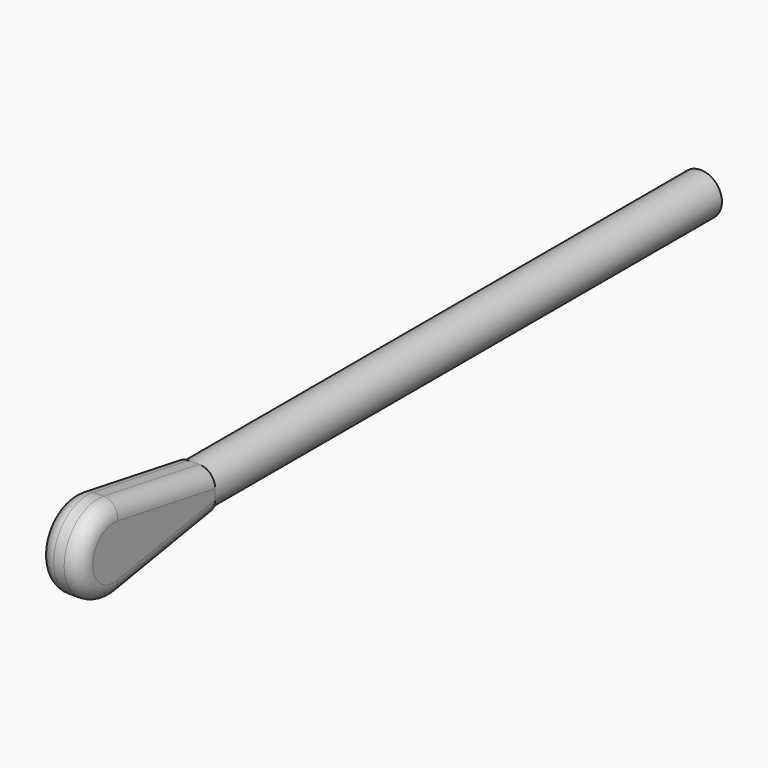
from build123d import *

# Parameters (mm, degrees)
F0_R     = 3.175
F1_DEPTH = 50.8
F3_DEPTH = 3.175
F4_R     = 2.3876


with BuildPart() as f1:
    # F0 (on Front) → F1 (new body, symmetric)
    with BuildSketch(Plane.XZ):
        Circle(F0_R)
    extrude(amount=F1_DEPTH, both=True)

    # F2 (on Right) → F3 (join, symmetric)
    with BuildSketch(Plane.YZ):
        with BuildLine():
            Line((-44.45, -3.175), (-44.45, 3.175))
            Line((-44.45, 3.175), (-62.426432, 6.25859))
            ThreePointArc((-62.426432, 6.25859), (-69.85, 0), (-62.426432, -6.25859))
            Line((-62.426432, -6.25859), (-44.45, -3.175))
        make_face()
    extrude(amount=F3_DEPTH, both=True)

    # F4
    f4_edges = [f1.edges().sort_by_distance(p)[0] for p in [
        (3.175, -69.85, 0),
        (-3.175, -69.85, 0),
    ]]
    fillet(f4_edges, radius=F4_R)


solid = f1.part
